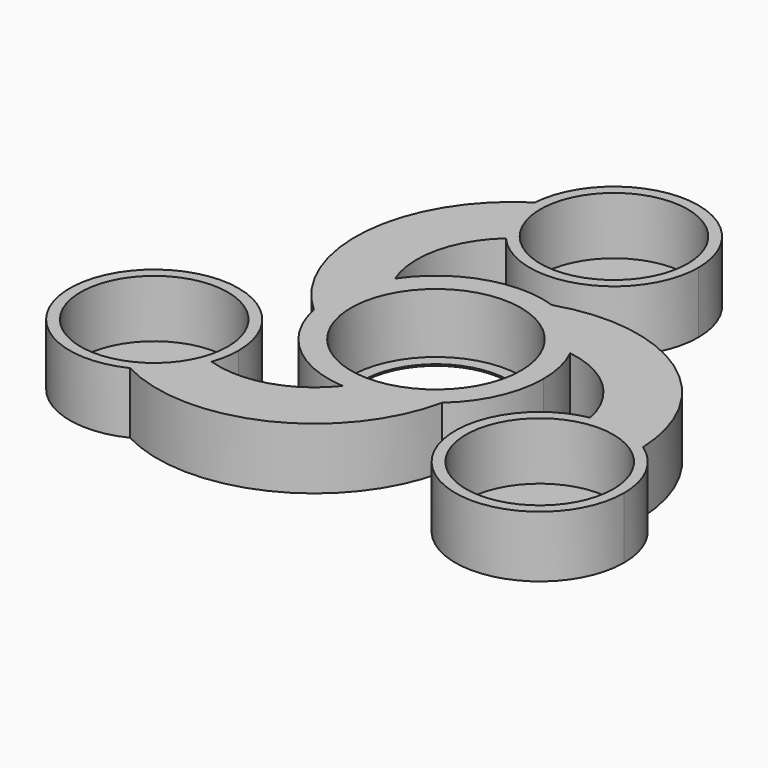
from build123d import *

# Parameters (mm, degrees)
F1_DEPTH = 8
F2_R     = 9.6
F3_DEPTH = 7.5
F4_R     = 9.5
F5_DEPTH = 8
F6_R     = 11.075
F7_DEPTH = 7.8


with BuildPart() as f1:
    # F0 (on Top) → F1 (new body)
    with BuildSketch(Plane.XY):
        with BuildLine():
            ThreePointArc((-20.338538175, -24.4089821655), (-2.1146153157, -24.8073076343), (9.2222039848, -10.5333258595))
            ThreePointArc((9.2222039848, -10.5333258595), (4.4593163175, -13.2708137648), (-0.9901909161, -13.9649390242))
            ThreePointArc((-0.9901909161, -13.9649390242), (-7.2029967728, -18.2136446038), (-14.7291218144, -18.1247763029))
            ThreePointArc((-14.7291218144, -18.1247763029), (-16.9084612176, -21.8250967603), (-20.338538175, -24.4089821655))
        make_face()
        with BuildLine():
            ThreePointArc((9.2222039848, -10.5333258595), (12.7497226595, -5.7831282284), (14, 0))
            ThreePointArc((14, 0), (13.6427127767, 3.1426721262), (12.5890874153, 6.1249390242))
            ThreePointArc((12.5890874153, 6.1249390242), (5.35662199, 4.9902566208), (0, 0))
            ThreePointArc((0, 0), (1.64337801, -7.1340990322), (-0.9901909161, -13.9649390242))
            ThreePointArc((-0.9901909161, -13.9649390242), (4.4593163175, -13.2708137648), (9.2222039848, -10.5333258595))
        make_face()
        with BuildLine():
            ThreePointArc((-0.9901909161, -13.9649390242), (1.64337801, -7.1340990322), (0, 0))
            ThreePointArc((0, 0), (-7, 2.1438424114), (-11.5988964992, 7.84))
            ThreePointArc((-11.5988964992, 7.84), (-13.722520008, 2.773525668), (-13.7332297731, -2.72))
            ThreePointArc((-13.7332297731, -2.72), (-9.2632036905, -10.4972880968), (-0.9901909161, -13.9649390242))
        make_face()
        with BuildLine():
            ThreePointArc((-14.1147367097, -14.5), (-34.4297295676, -8.6492814066), (-20.338538175, -24.4089821655))
            ThreePointArc((-20.338538175, -24.4089821655), (-16.9084612176, -21.8250967603), (-14.7291218144, -18.1247763029))
            ThreePointArc((-14.7291218144, -18.1247763029), (-14.2694205814, -16.3382377637), (-14.1147367097, -14.5))
        make_face()
        with BuildLine():
            ThreePointArc((31.3080677234, -5.4091996526), (27.3553188432, -3.7306085732), (23.0610776234, -3.6934055153))
            ThreePointArc((23.0610776234, -3.6934055153), (18.100118044, -22.9732003974), (36.1147367097, -14.5))
            ThreePointArc((36.1147367097, -14.5), (34.8391040709, -9.3583388458), (31.3080677234, -5.4091996526))
        make_face()
        with BuildLine():
            ThreePointArc((4.5110257882, 13.2533258595), (9.2632036905, 10.4972880968), (12.5890874153, 6.1249390242))
            ThreePointArc((12.5890874153, 6.1249390242), (19.3749773088, 2.8688441133), (23.0610776234, -3.6934055153))
            ThreePointArc((23.0610776234, -3.6934055153), (27.3553188432, -3.7306085732), (31.3080677234, -5.4091996526))
            ThreePointArc((31.3080677234, -5.4091996526), (22.5410662686, 10.5723432345), (4.5110257882, 13.2533258595))
        make_face()
        with BuildLine():
            ThreePointArc((0, 0), (5.35662199, 4.9902566208), (12.5890874153, 6.1249390242))
            ThreePointArc((12.5890874153, 6.1249390242), (9.2632036905, 10.4972880968), (4.5110257882, 13.2533258595))
            ThreePointArc((4.5110257882, 13.2533258595), (-4.4593163175, 13.2708137648), (-11.5988964992, 7.84))
            ThreePointArc((-11.5988964992, 7.84), (-7, 2.1438424114), (0, 0))
        make_face()
        with BuildLine():
            ThreePointArc((-13.7332297731, -2.72), (-13.722520008, 2.773525668), (-11.5988964992, 7.84))
            ThreePointArc((-11.5988964992, 7.84), (-12.171980536, 15.3448004906), (-8.331955809, 21.8181818182))
            ThreePointArc((-8.331955809, 21.8181818182), (-10.4468576256, 25.5557053335), (-10.9695295484, 29.8181818182))
            ThreePointArc((-10.9695295484, 29.8181818182), (-20.4264509529, 14.2349643998), (-13.7332297731, -2.72))
        make_face()
        with BuildLine():
            ThreePointArc((-10.9695295484, 29.8181818182), (-10.4468576256, 25.5557053335), (-8.331955809, 21.8181818182))
            ThreePointArc((-8.331955809, 21.8181818182), (3.8306974627, 18.6885618389), (11, 29))
            ThreePointArc((11, 29), (0.4093745034, 39.9923797476), (-10.9695295484, 29.8181818182))
        make_face()
    extrude(amount=F1_DEPTH)

    # F2 (on face) → F3 (cut)
    with BuildSketch(Plane.XY.offset(8)):
        with Locations((0, 29)):
            Circle(F2_R)
        with Locations((-25.1147367097, -14.5)):
            Circle(F2_R)
        with Locations((25.1147367097, -14.5)):
            Circle(F2_R)
    extrude(amount=-F3_DEPTH, mode=Mode.SUBTRACT)

    # F4 (on face) → F5 (cut, through all)
    with BuildSketch(Plane.XY.offset(8)):
        Circle(F4_R)
    extrude(amount=-F5_DEPTH, mode=Mode.SUBTRACT)

    # F6 (on face) → F7 (cut)
    with BuildSketch(Plane.XY.offset(8)):
        Circle(F6_R)
    extrude(amount=-F7_DEPTH, mode=Mode.SUBTRACT)


solid = f1.part
